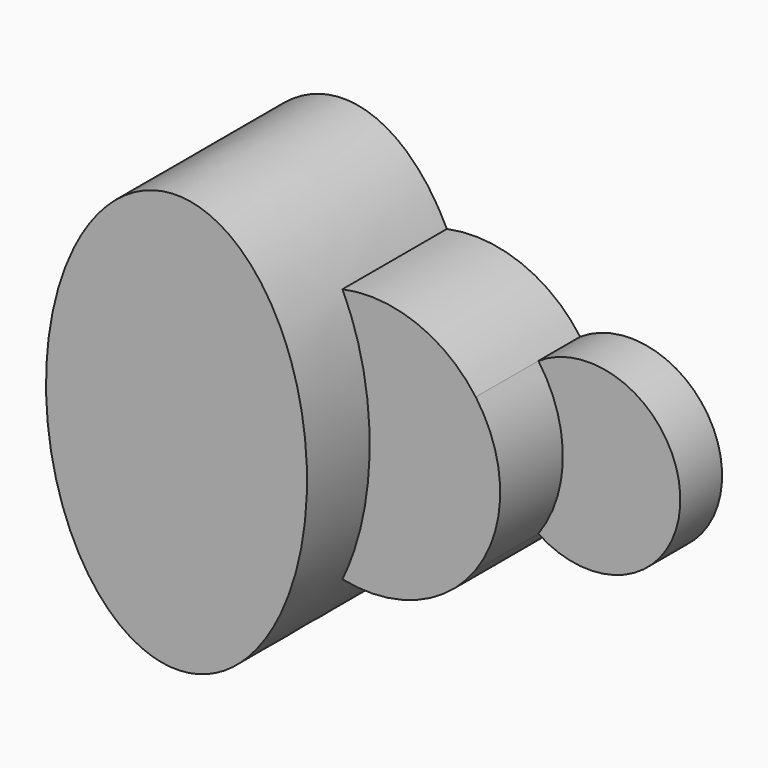
from build123d import *

# Parameters (mm, degrees)
F1_DEPTH = 25.4
F2_DEPTH = 63.5
F3_DEPTH = 101.6


with BuildPart() as f1:
    # F0 (on Front) → F1 (new body)
    with BuildSketch(Plane.XZ):
        with BuildLine():
            ThreePointArc((51.59375, 37.0180356169), (60.4501990278, 19.4428248333), (63.5, 0))
            ThreePointArc((63.5, 0), (60.4501990278, -19.4428248333), (51.59375, -37.0180356169))
            ThreePointArc((51.59375, -37.0180356169), (97.2006510316, -39.1762065066), (120.65, 0))
            ThreePointArc((120.65, 0), (97.2006510316, 39.1762065066), (51.59375, 37.0180356169))
        make_face()
    extrude(amount=F1_DEPTH)

    # F0 (on Front) → F2 (join)
    with BuildSketch(Plane.XZ):
        with BuildLine():
            Line((31.75, 0), (0, 0))
            add(Edge.make_bspline(
                [(-13.2439655959, -62.1035214404), (0, -34.6669399309), (0, 0)],
                knots=[4.0547434617, 4.0547434617, 4.0547434617, 4.7123889804, 4.7123889804, 4.7123889804], degree=2, weights=[1, 0.9464231645, 1]))
            ThreePointArc((-13.2439655959, -62.1035214404), (22.9128106244, -59.2220660674), (51.59375, -37.0180356169))
            ThreePointArc((51.59375, -37.0180356169), (37.0237934934, -21.0006510316), (31.75, 0))
        make_face()
        with BuildLine():
            Line((63.5, 0), (31.75, 0))
            ThreePointArc((31.75, 0), (37.0237934934, -21.0006510316), (51.59375, -37.0180356169))
            ThreePointArc((51.59375, -37.0180356169), (60.4501990278, -19.4428248333), (63.5, 0))
        make_face()
        with BuildLine():
            add(Edge.make_bspline(
                [(0, 0), (0, 34.6669399309), (-13.2439655959, 62.1035214404)],
                knots=[4.7123889804, 4.7123889804, 4.7123889804, 5.370034499, 5.370034499, 5.370034499], degree=2, weights=[1, 0.9464231645, 1]))
            Line((0, 0), (31.75, 0))
            ThreePointArc((31.75, 0), (37.0237934934, 21.0006510316), (51.59375, 37.0180356169))
            ThreePointArc((51.59375, 37.0180356169), (22.9128106244, 59.2220660674), (-13.2439655959, 62.1035214404))
        make_face()
        with BuildLine():
            ThreePointArc((51.59375, 37.0180356169), (37.0237934934, 21.0006510316), (31.75, 0))
            Line((31.75, 0), (63.5, 0))
            ThreePointArc((63.5, 0), (60.4501990278, 19.4428248333), (51.59375, 37.0180356169))
        make_face()
    extrude(amount=F2_DEPTH)

    # F0 (on Front) → F3 (join)
    with BuildSketch(Plane.XZ):
        with BuildLine():
            add(Edge.make_bspline(
                [(-63.5, 101.6), (-165.437374262, 101.6), (-120.4955415237, -44.7930922222), (-75.5537087854, -191.1861844445), (-13.2439655959, -62.1035214404)],
                knots=[0, 0, 0, 2.0273717309, 2.0273717309, 4.0547434617, 4.0547434617, 4.0547434617], degree=2, weights=[1, 0.5287358074, 1, 0.5287358074, 1]))
            ThreePointArc((-13.2439655959, -62.1035214404), (-49.3621404284, -39.9453262889), (-63.5, 0))
            Line((-63.5, 0), (-63.5, 101.6))
        make_face()
        with BuildLine():
            add(Edge.make_bspline(
                [(-13.2439655959, -62.1035214404), (0, -34.6669399309), (0, 0)],
                knots=[4.0547434617, 4.0547434617, 4.0547434617, 4.7123889804, 4.7123889804, 4.7123889804], degree=2, weights=[1, 0.9464231645, 1]))
            add(Edge.make_bspline(
                [(0, 0), (0, 34.6669399309), (-13.2439655959, 62.1035214404)],
                knots=[4.7123889804, 4.7123889804, 4.7123889804, 5.370034499, 5.370034499, 5.370034499], degree=2, weights=[1, 0.9464231645, 1]))
            ThreePointArc((-13.2439655959, 62.1035214404), (-49.3621404284, 39.9453262889), (-63.5, 0))
            ThreePointArc((-63.5, 0), (-49.3621404284, -39.9453262889), (-13.2439655959, -62.1035214404))
        make_face()
        with BuildLine():
            ThreePointArc((-63.5, 0), (-49.3621404284, 39.9453262889), (-13.2439655959, 62.1035214404))
            add(Edge.make_bspline(
                [(-13.2439655959, 62.1035214404), (-32.3093875408, 101.6), (-63.5, 101.6)],
                knots=[5.370034499, 5.370034499, 5.370034499, 6.2831853072, 6.2831853072, 6.2831853072], degree=2, weights=[1, 0.8975675831, 1]))
            Line((-63.5, 101.6), (-63.5, 0))
        make_face()
    extrude(amount=F3_DEPTH)


solid = f1.part
